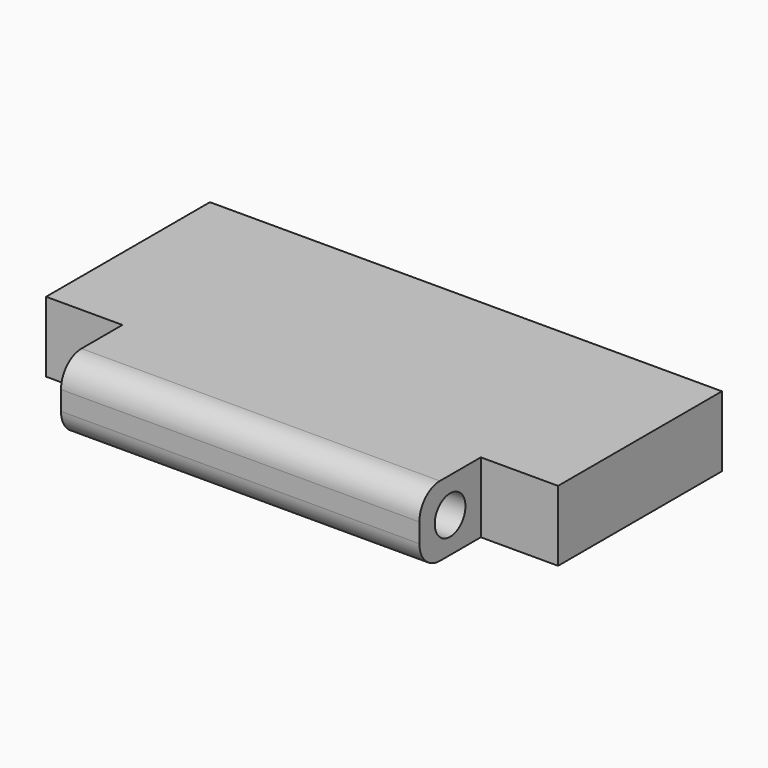
from build123d import *

# Parameters (mm, degrees)
F1_DEPTH = 17.4625
F3_D     = 9.525
F4_R     = 6.35


with BuildPart() as f1:
    # F0 (on Top) → F1 (new body)
    with BuildSketch(Plane.XY):
        Polygon((62.708709, 41.755856), (-64.291291, 41.755856), (-64.291291, -9.044144), (-45.354009, -9.044144), (-45.354009, -28.094144), (43.545991, -28.094144), (43.545991, -9.044144), (62.708709, -9.044144), align=None)
    extrude(amount=F1_DEPTH)

    # F3 (through all)
    with Locations(Plane(origin=(-45.354009, 0, 0), x_dir=(0, -1, 0), z_dir=(-1, 0, 0))):
        with Locations((18.569144, 8.73125)):
            Hole(F3_D / 2)

    # F4
    f4_edges = [f1.edges().sort_by_distance(p)[0] for p in [
        (-0.904009, -28.094144, 17.4625),
        (-0.904009, -28.094144, 0),
    ]]
    fillet(f4_edges, radius=F4_R)


solid = f1.part
